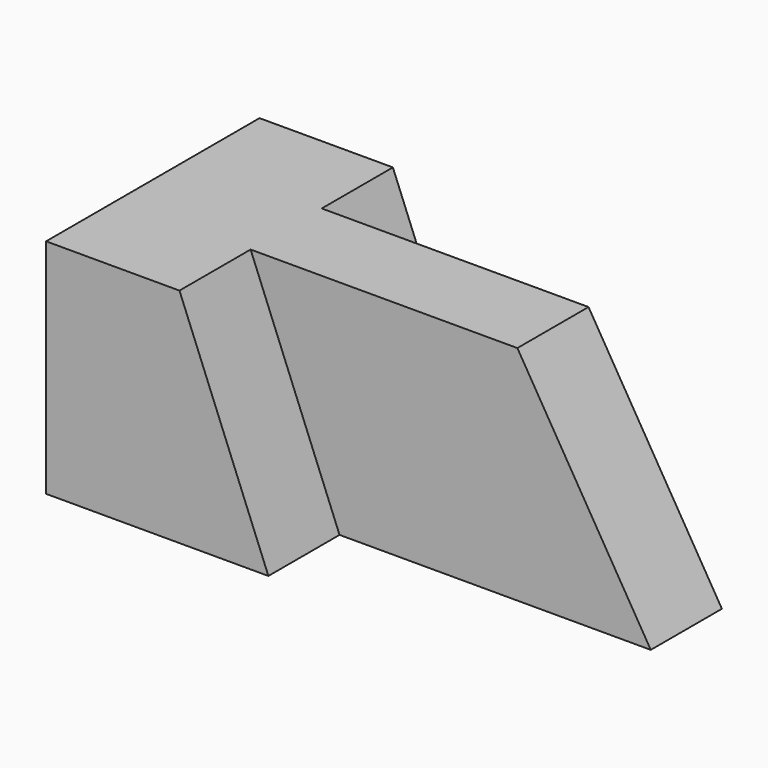
from build123d import *

# Parameters (mm, degrees)
F0_W      = 31.75
F0_H      = 31.75
F1_DEPTH  = 38.1
F2_W      = 12.7
F2_H      = 31.75
F3_DEPTH  = 44.45
F6_DEPTH  = 25.401
F8_DEPTH  = 12.7
F10_DEPTH = 12.7


with BuildPart() as f1:
    # F0 (on Front) → F1 (new body)
    with BuildSketch(Plane.XZ):
        with Locations((-15.875, 15.875)):
            Rectangle(F0_W, F0_H)
    extrude(amount=F1_DEPTH)

    # F2 (on face) → F3 (join)
    with BuildSketch(Plane.YZ):
        with Locations((-19.05, 15.875)):
            Rectangle(F2_W, F2_H)
    extrude(amount=F3_DEPTH)

    # F4 (on face) → F6 (cut, through all)
    with BuildSketch(Plane.XZ.offset(25.4)):
        Polygon((44.45, 31.75), (25.4, 31.75), (44.45, 0), align=None)
    extrude(amount=-F6_DEPTH, mode=Mode.SUBTRACT)

    # F7 (on face) → F8 (cut)
    with BuildSketch(Plane.XZ.offset(38.1)):
        Polygon((-12.7, 31.75), (0, 0), (0, 31.75), align=None)
    extrude(amount=-F8_DEPTH, mode=Mode.SUBTRACT)

    # F9 (on face) → F10 (cut)
    with BuildSketch(Plane(origin=(0, 0, 0), x_dir=(-1, 0, 0), z_dir=(0, 1, 0))):
        Polygon((0, 31.75), (0, 0), (12.7, 31.75), align=None)
    extrude(amount=-F10_DEPTH, mode=Mode.SUBTRACT)


solid = f1.part
